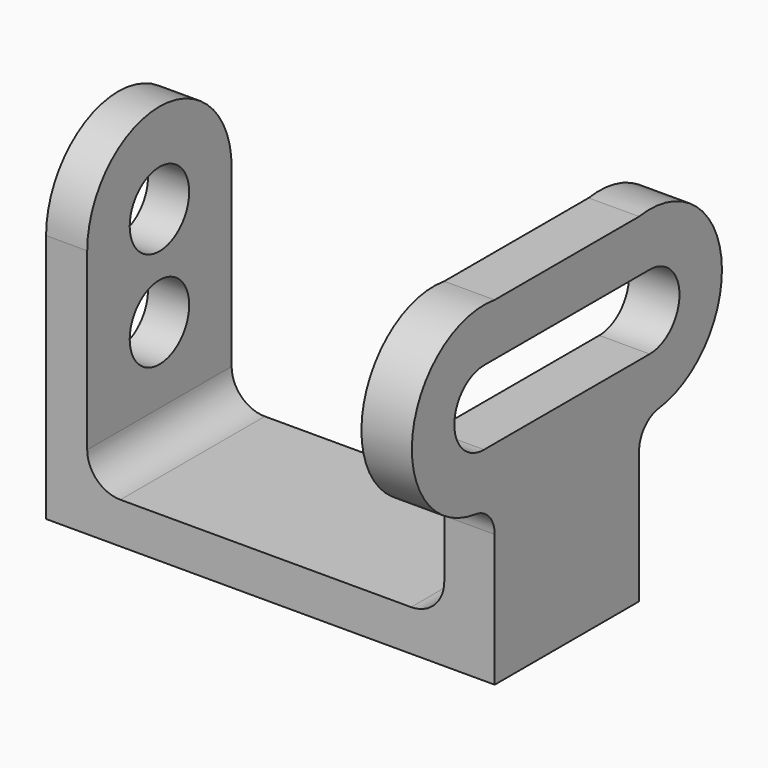
from build123d import *

# Parameters (mm, degrees)
F1_DEPTH = 9.652
F2_W     = 76.2
F2_H     = 7.874
F3_DEPTH = 34.544
F4_R     = 7.112
F5_DEPTH = 7.874
F6_R     = 6.35


with BuildPart() as f1:
    # F0 (on Right) → F1 (new body)
    with BuildSketch(Plane.YZ):
        with BuildLine():
            Line((0, 25.319327), (0, 0))
            Line((0, 0), (34.544, 0))
            Line((34.544, 0), (34.544, 25.319327))
            ThreePointArc((34.544, 25.319327), (35.879998, 28.850267), (39.218742, 30.61243))
            ThreePointArc((39.218742, 30.61243), (54.197092, 50.089535), (34.544, 64.836214))
            Line((34.544, 64.836214), (0, 64.836214))
            ThreePointArc((0, 64.836214), (-19.653092, 50.089535), (-4.674742, 30.61243))
            ThreePointArc((-4.674742, 30.61243), (-1.335998, 28.850267), (0, 25.319327))
        make_face()
        with BuildLine():
            ThreePointArc((37.084, 54.864), (44.196, 47.752), (37.084, 40.64))
            Line((37.084, 40.64), (-2.54, 40.64))
            ThreePointArc((-2.54, 40.64), (-9.652, 47.752), (-2.54, 54.864))
            Line((-2.54, 54.864), (37.084, 54.864))
        make_face(mode=Mode.SUBTRACT)
    extrude(amount=F1_DEPTH)

    # F2 (on Front) → F3 (join)
    with BuildSketch(Plane.XZ):
        with Locations((-38.1, 3.937)):
            Rectangle(F2_W, F2_H)
    extrude(amount=-F3_DEPTH)

    # F4 (on face) → F5 (join)
    with BuildSketch(Plane(origin=(-76.2, 0, 0), x_dir=(0, -1, 0), z_dir=(-1, 0, 0))):
        with BuildLine():
            Line((-34.544, 47.752), (-34.544, 0))
            Line((-34.544, 0), (0, 0))
            Line((0, 0), (0, 47.752))
            ThreePointArc((0, 47.752), (-17.272, 65.024), (-34.544, 47.752))
        make_face()
        with Locations((-17.272, 28.702)):
            Circle(F4_R, mode=Mode.SUBTRACT)
        with Locations((-17.272, 47.752)):
            Circle(F4_R, mode=Mode.SUBTRACT)
    extrude(amount=-F5_DEPTH)

    # F6
    f6_edges = [f1.edges().sort_by_distance(p)[0] for p in [
        (-68.326, 17.272, 7.874),
        (0, 17.272, 7.874),
    ]]
    fillet(f6_edges, radius=F6_R)


solid = f1.part
